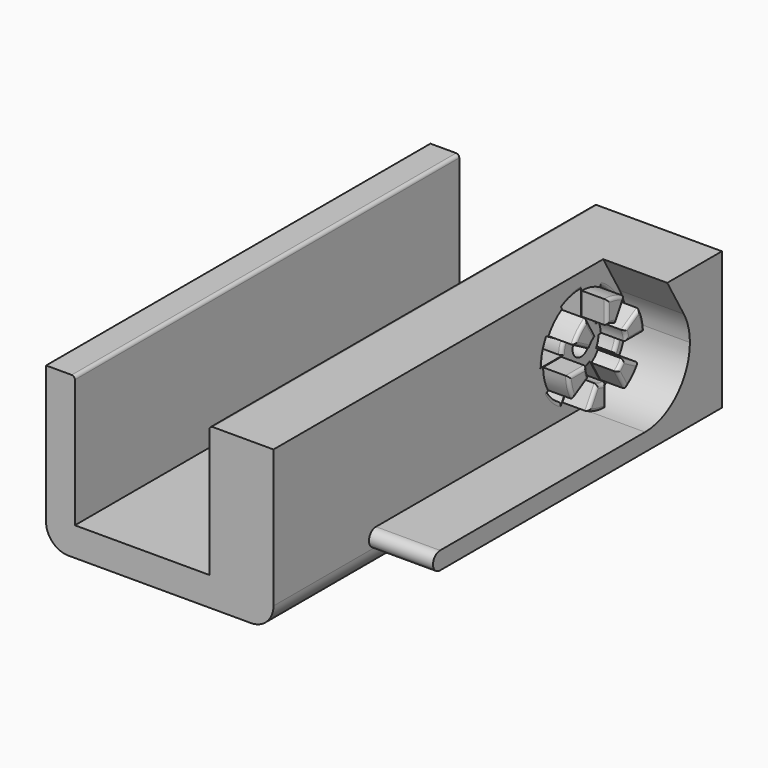
from build123d import *

# Parameters (mm, degrees)
F0_DEPTH = 150
F2_DEPTH = 20
F3_D     = 6.6
F3_DEPTH = 25
F3_TIP   = 1.9828400428
F4_DEPTH = 8
F5_DEPTH = 8
F6_R     = 1


with BuildPart() as f0:
    # F7 (on Front) → F0 (new body)
    with BuildSketch(Plane.XZ):
        with BuildLine():
            Line((21, 40), (21, 0))
            Line((21, 0), (-21, 0))
            Line((-21, 0), (-21, 40))
            ThreePointArc((-21, 40), (-21.2928932188, 40.7071067812), (-22, 41))
            Line((-22, 41), (-30, 41))
            Line((-30, 41), (-30, -2))
            ThreePointArc((-30, -2), (-27.9497474683, -6.9497474683), (-23, -9))
            Line((-23, -9), (34, -9))
            ThreePointArc((34, -9), (38.9497474683, -6.9497474683), (41, -2))
            Line((41, -2), (41, 41))
            Line((41, 41), (22, 41))
            ThreePointArc((22, 41), (21.2928932188, 40.7071067812), (21, 40))
        make_face()
    extrude(amount=F0_DEPTH)

    # F1 (on face) → F2 (join)
    with BuildSketch(Plane.YZ.offset(41)):
        with BuildLine():
            ThreePointArc((-14.8445554338, 29.75), (-13.0962980399, 25.5293332893), (-12.5, 21))
            ThreePointArc((-12.5, 21), (-17.6256313292, 8.6256313292), (-30, 3.5))
            Line((-30, 3.5), (-110, 3.5))
            ThreePointArc((-110, 3.5), (-112.75, 0.75), (-110, -2))
            Line((-110, -2), (0, -2))
            Line((0, -2), (0, 41))
            Line((0, 41), (-21.3397459622, 41))
            Line((-21.3397459622, 41), (-14.8445554338, 29.75))
        make_face()
    extrude(amount=F2_DEPTH)

    # F3
    with Locations(Plane.YZ.offset(41)):
        with Locations((-30, 21)):
            Hole(F3_D / 2, depth=F3_DEPTH)
            with Locations((0, 0, -(F3_DEPTH + F3_TIP / 2))):  # 118° drill point
                Cone(0, F3_D / 2, F3_TIP, mode=Mode.SUBTRACT)

    # F1 (on face) → F4 (join)
    with BuildSketch(Plane.YZ.offset(41)):
        with BuildLine():
            Line((-26.3245040012, 27.766145813), (-22.7738807873, 33.916005618))
            ThreePointArc((-22.7738807873, 33.916005618), (-26.1694781325, 35.2957022291), (-29.8, 35.7986485869))
            Line((-29.8, 35.7986485869), (-29.8, 28.6974021592))
            ThreePointArc((-29.8, 28.6974021592), (-28.0070933527, 28.4376288624), (-26.3245040012, 27.766145813))
        make_face()
        with BuildLine():
            Line((-17.083994382, 28.2261192127), (-23.233854187, 24.6754959988))
            ThreePointArc((-23.233854187, 24.6754959988), (-22.5623711376, 22.9929066473), (-22.3025978408, 21.2))
            Line((-22.3025978408, 21.2), (-15.2013514131, 21.2))
            ThreePointArc((-15.2013514131, 21.2), (-15.7042977709, 24.8305218675), (-17.083994382, 28.2261192127))
        make_face()
        with BuildLine():
            Line((-17.283994382, 13.4274706258), (-23.433854187, 16.9780938397))
            ThreePointArc((-23.433854187, 16.9780938397), (-24.5552777849, 15.5552777849), (-25.9780938397, 14.433854187))
            Line((-25.9780938397, 14.433854187), (-22.4274706258, 8.283994382))
            ThreePointArc((-22.4274706258, 8.283994382), (-19.5348196384, 10.5348196384), (-17.283994382, 13.4274706258))
        make_face()
        with BuildLine():
            Line((-30.2, 6.2013514131), (-30.2, 13.3025978408))
            ThreePointArc((-30.2, 13.3025978408), (-31.9929066473, 13.5623711376), (-33.6754959988, 14.233854187))
            Line((-33.6754959988, 14.233854187), (-37.2261192127, 8.083994382))
            ThreePointArc((-37.2261192127, 8.083994382), (-33.8305218675, 6.7042977709), (-30.2, 6.2013514131))
        make_face()
        with BuildLine():
            Line((-42.916005618, 13.7738807873), (-36.766145813, 17.3245040012))
            ThreePointArc((-36.766145813, 17.3245040012), (-37.4376288624, 19.0070933527), (-37.6974021592, 20.8))
            Line((-37.6974021592, 20.8), (-44.7986485869, 20.8))
            ThreePointArc((-44.7986485869, 20.8), (-44.2957022291, 17.1694781325), (-42.916005618, 13.7738807873))
        make_face()
        with BuildLine():
            Line((-42.716005618, 28.5725293742), (-36.566145813, 25.0219061603))
            ThreePointArc((-36.566145813, 25.0219061603), (-35.4447222151, 26.4447222151), (-34.0219061603, 27.566145813))
            Line((-34.0219061603, 27.566145813), (-37.5725293742, 33.716005618))
            ThreePointArc((-37.5725293742, 33.716005618), (-40.4651803616, 31.4651803616), (-42.716005618, 28.5725293742))
        make_face()
    extrude(amount=F4_DEPTH)

    # F1 (on face) → F5 (cut)
    with BuildSketch(Plane.YZ.offset(41)):
        with BuildLine():
            ThreePointArc((-33.75, 27.4951905284), (-31.9411428383, 28.2444436972), (-30, 28.5))
            Line((-30, 28.5), (-30, 36))
            ThreePointArc((-30, 36), (-33.8822856765, 35.4888873943), (-37.5, 33.9903810568))
            Line((-37.5, 33.9903810568), (-33.75, 27.4951905284))
        make_face()
        with BuildLine():
            Line((-22.5, 33.9903810568), (-26.25, 27.4951905284))
            ThreePointArc((-26.25, 27.4951905284), (-24.6966991411, 26.3033008589), (-23.5048094716, 24.75))
            Line((-23.5048094716, 24.75), (-17.0096189432, 28.5))
            ThreePointArc((-17.0096189432, 28.5), (-19.3933982822, 31.6066017178), (-22.5, 33.9903810568))
        make_face()
        with BuildLine():
            Line((-15, 21), (-22.5, 21))
            ThreePointArc((-22.5, 21), (-22.7555563028, 19.0588571617), (-23.5048094716, 17.25))
            Line((-23.5048094716, 17.25), (-17.0096189432, 13.5))
            ThreePointArc((-17.0096189432, 13.5), (-15.5111126057, 17.1177143235), (-15, 21))
        make_face()
        with BuildLine():
            Line((-22.5, 8.0096189432), (-26.25, 14.5048094716))
            ThreePointArc((-26.25, 14.5048094716), (-28.0588571617, 13.7555563028), (-30, 13.5))
            Line((-30, 13.5), (-30, 6))
            ThreePointArc((-30, 6), (-26.1177143235, 6.5111126057), (-22.5, 8.0096189432))
        make_face()
        with BuildLine():
            ThreePointArc((-33.75, 14.5048094716), (-35.3033008589, 15.6966991411), (-36.4951905284, 17.25))
            Line((-36.4951905284, 17.25), (-42.9903810568, 13.5))
            ThreePointArc((-42.9903810568, 13.5), (-40.6066017178, 10.3933982822), (-37.5, 8.0096189432))
            Line((-37.5, 8.0096189432), (-33.75, 14.5048094716))
        make_face()
        with BuildLine():
            ThreePointArc((-37.5, 21), (-37.2444436972, 22.9411428383), (-36.4951905284, 24.75))
            Line((-36.4951905284, 24.75), (-42.9903810568, 28.5))
            ThreePointArc((-42.9903810568, 28.5), (-44.4888873943, 24.8822856765), (-45, 21))
            Line((-45, 21), (-37.5, 21))
        make_face()
    extrude(amount=-F5_DEPTH, mode=Mode.SUBTRACT)

    # F6
    f6_edges = [f0.edges().sort_by_distance(p)[0] for p in [
        (33, -31.941143, 28.244444),
        (33, -30, 32.25),
        (33, -33.882286, 35.488887),
        (33, -35.625, 30.742786),
        (33, -19.393398, 31.606602),
        (33, -24.375, 30.742786),
        (33, -24.696699, 26.303301),
        (33, -20.257214, 26.625),
        (33, -20.257214, 15.375),
        (33, -15.511113, 17.117714),
        (33, -18.75, 21),
        (33, -22.755556, 19.058857),
        (33, -26.117714, 6.511113),
        (33, -24.375, 11.257214),
        (33, -28.058857, 13.755556),
        (33, -30, 9.75),
        (33, -40.606602, 10.393398),
        (33, -35.625, 11.257214),
        (33, -35.303301, 15.696699),
        (33, -39.742786, 15.375),
        (33, -41.25, 21),
        (33, -37.244444, 22.941143),
        (33, -39.742786, 26.625),
        (33, -44.488887, 24.882286),
        (49, -40.46518, 31.46518),
        (49, -39.641076, 26.797218),
        (49, -35.444722, 26.444722),
        (49, -35.797218, 30.641076),
        (49, -26.169478, 35.295702),
        (49, -29.8, 32.248025),
        (49, -28.007093, 28.437629),
        (49, -24.549192, 30.841076),
        (49, -15.704298, 24.830522),
        (49, -20.158924, 26.450808),
        (49, -22.562371, 22.992907),
        (49, -18.751975, 21.2),
        (49, -20.358924, 15.202782),
        (49, -24.555278, 15.555278),
        (49, -24.202782, 11.358924),
        (49, -19.53482, 10.53482),
        (49, -33.830522, 6.704298),
        (49, -30.2, 9.751975),
        (49, -31.992907, 13.562371),
        (49, -35.450808, 11.158924),
        (49, -39.841076, 15.549192),
        (49, -37.437629, 19.007093),
        (49, -41.248025, 20.8),
        (49, -44.295702, 17.169478),
        (41, -37.244444, 22.941143),
        (41, -31.941143, 28.244444),
        (41, -24.696699, 26.303301),
        (41, -22.755556, 19.058857),
        (41, -28.058857, 13.755556),
        (41, -35.303301, 15.696699),
        (41, -44.488887, 24.882286),
        (41, -33.882286, 35.488887),
        (41, -19.393398, 31.606602),
        (41, -15.511113, 17.117714),
        (41, -26.117714, 6.511113),
        (41, -40.606602, 10.393398),
    ]]
    fillet(f6_edges, radius=F6_R)


solid = f0.part
